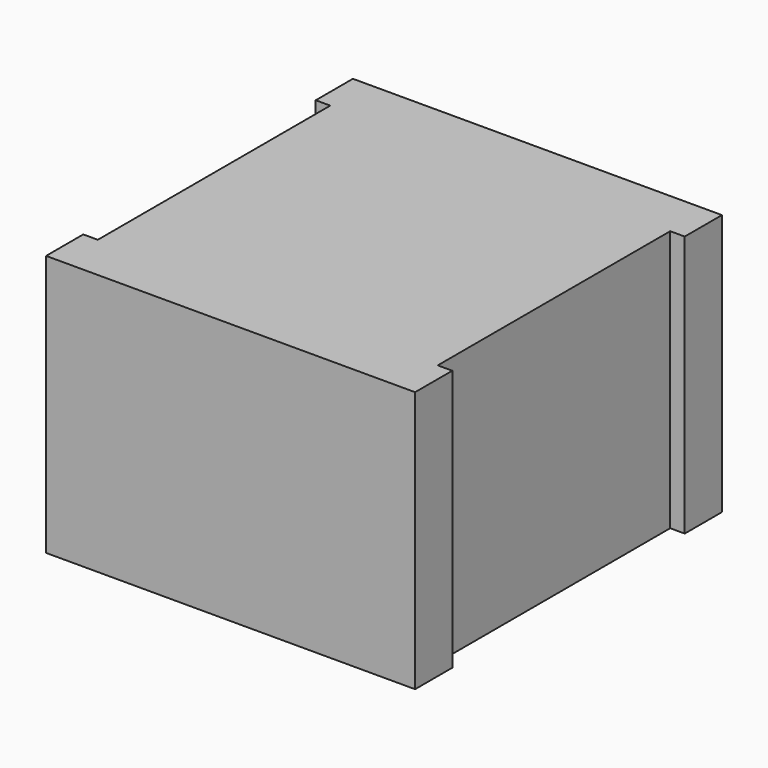
from build123d import *

# Parameters (mm, degrees)
SKETCH_W        = 12.7
SKETCH_H        = 13.2
PAD_DEPTH       = 9.5
SKETCH004_W     = 10
SKETCH004_H     = 9.5
POCKET_DEPTH    = 0.5
POCKET001_DEPTH = 0.5


with BuildPart() as part:
    # Sketch → Pad (new body)
    with BuildSketch(Plane.XY):
        Rectangle(SKETCH_W, SKETCH_H)
    extrude(amount=PAD_DEPTH)

    # Sketch004 → Pocket (cut)
    with BuildSketch(Plane.YZ.offset(6.35)):
        with Locations((0, 4.75)):
            Rectangle(SKETCH004_W, SKETCH004_H)
    pocket = extrude(amount=-POCKET_DEPTH, mode=Mode.SUBTRACT)

    # Mirrored: Pocket across YZ
    add(pocket.mirror(Plane.YZ), mode=Mode.SUBTRACT)

    # Sketch005 → Pocket001 (cut)
    with BuildSketch(Plane.XY.offset(9.5)):
        Polygon((-6.35, 6.6), (6.35, 6.6), (6.35, 5), (5.85, 5), (5.85, 0), (-5.85, 0), (-5.85, 5), (-6.35, 5), align=None)
    pocket001 = extrude(amount=-POCKET001_DEPTH, mode=Mode.SUBTRACT)

    # Mirrored001: Pocket001 across XZ
    add(pocket001.mirror(Plane.XZ), mode=Mode.SUBTRACT)


solid = part.part
